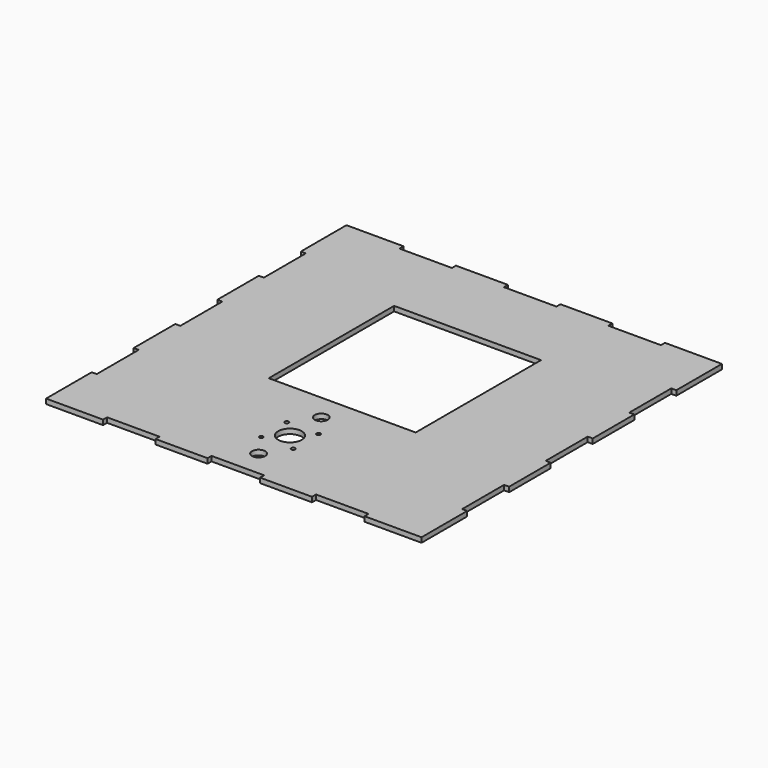
from build123d import *

# Parameters (mm, degrees)
F0_R     = 1.905
F0_R_2   = 6.4135
F0_R_3   = 11.43
F0_W     = 142.875
F0_H     = 25.4
F0_H_2   = 12.7
F1_DEPTH = 4.7625


with BuildPart() as f1:
    # F0 (on Top) → F1 (new body)
    with BuildSketch(Plane.XY):
        Polygon((182.5625, 127.1143), (182.5625, 182.5625), (127.1143, 182.5625), (127.1143, 177.6857), (76.0603, 177.6857), (76.0603, 182.5625), (25.5143, 182.5625), (25.5143, 177.6857), (-25.5397, 177.6857), (-25.5397, 182.5625), (-76.0857, 182.5625), (-76.0857, 177.6857), (-127.1397, 177.6857), (-127.1397, 182.5625), (-182.5625, 182.5625), (-182.5625, 127.1143), (-177.673, 127.1143), (-177.673, 76.0603), (-182.5625, 76.0603), (-182.5625, 25.5143), (-177.673, 25.5143), (-177.673, -25.5397), (-182.5625, -25.5397), (-182.5625, -76.0857), (-177.673, -76.0857), (-177.673, -127.1397), (-182.5625, -127.1397), (-182.5625, -182.5625), (-127.1397, -182.5625), (-127.1397, -177.6857), (-76.0857, -177.6857), (-76.0857, -182.5625), (-25.5397, -182.5625), (-25.5397, -177.6857), (25.5143, -177.6857), (25.5143, -182.5625), (76.0603, -182.5625), (76.0603, -177.6857), (127.1143, -177.6857), (127.1143, -182.5625), (182.5625, -182.5625), (182.5625, -127.1397), (177.673, -127.1397), (177.673, -76.0857), (182.5625, -76.0857), (182.5625, -25.5397), (177.673, -25.5397), (177.673, 25.5143), (182.5625, 25.5143), (182.5625, 76.0603), (177.673, 76.0603), (177.673, 127.1143), align=None)
        with Locations((-15.494, -129.8067)):
            Circle(F0_R, mode=Mode.SUBTRACT)
        with Locations((-15.494, -98.8187)):
            Circle(F0_R, mode=Mode.SUBTRACT)
        with Locations((0, -152.4127)):
            Circle(F0_R_2, mode=Mode.SUBTRACT)
        with Locations((15.494, -129.8067)):
            Circle(F0_R, mode=Mode.SUBTRACT)
        with Locations((0, -114.3127)):
            Circle(F0_R_3, mode=Mode.SUBTRACT)
        with Locations((15.494, -98.8187)):
            Circle(F0_R, mode=Mode.SUBTRACT)
        with Locations((-15.494, 124.2187)):
            Circle(F0_R, mode=Mode.SUBTRACT)
        with Locations((-15.494, 155.2067)):
            Circle(F0_R, mode=Mode.SUBTRACT)
        Polygon((-71.4375, -88.9), (-71.4375, -63.5), (-71.4375, -50.8), (-71.4375, 63.5), (-71.4375, 101.6), (71.4375, 101.6), (71.4375, 63.5), (71.4375, -50.8), (71.4375, -63.5), (71.4375, -88.9), align=None, mode=Mode.SUBTRACT)
        with Locations((15.494, 124.2187)):
            Circle(F0_R, mode=Mode.SUBTRACT)
        with Locations((0, 139.7127)):
            Circle(F0_R_3, mode=Mode.SUBTRACT)
        with Locations((15.494, 155.2067)):
            Circle(F0_R, mode=Mode.SUBTRACT)
        with Locations((-15.494, 124.2187)):
            Circle(F0_R)
        with Locations((15.494, 124.2187)):
            Circle(F0_R)
        with Locations((15.494, 155.2067)):
            Circle(F0_R)
        with Locations((-15.494, 155.2067)):
            Circle(F0_R)
        with Locations((0, 139.7127)):
            Circle(F0_R_3)
        with Locations((0, -76.2)):
            Rectangle(F0_W, F0_H)
        with Locations((0, -76.2127)):
            Circle(F0_R_2, mode=Mode.SUBTRACT)
        with Locations((0, -57.15)):
            Rectangle(F0_W, F0_H_2)
    extrude(amount=F1_DEPTH)


solid = f1.part
